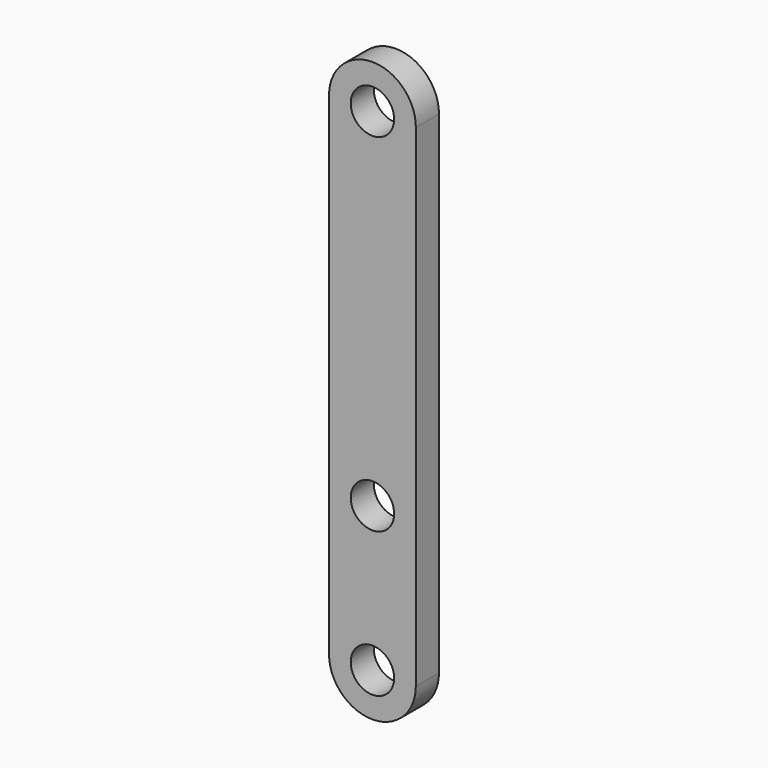
from build123d import *

# Parameters (mm, degrees)
F1_DEPTH = 10
F2_R     = 7.5
F3_DEPTH = 51


with BuildPart() as f1:
    # F0 (on Front) → F1 (new body)
    with BuildSketch(Plane.XZ):
        with BuildLine():
            Line((15, -85), (15, 85))
            ThreePointArc((15, 85), (0, 100), (-15, 85))
            Line((-15, 85), (-15, -85))
            ThreePointArc((-15, -85), (0, -100), (15, -85))
        make_face()
    extrude(amount=F1_DEPTH)

    # F2 (on Front) → F3 (cut)
    with BuildSketch(Plane.XZ):
        with Locations((0, 85)):
            Circle(F2_R)
        with Locations((0, -35)):
            Circle(F2_R)
        with Locations((0, -85)):
            Circle(F2_R)
    extrude(amount=F3_DEPTH, mode=Mode.SUBTRACT)


solid = f1.part
